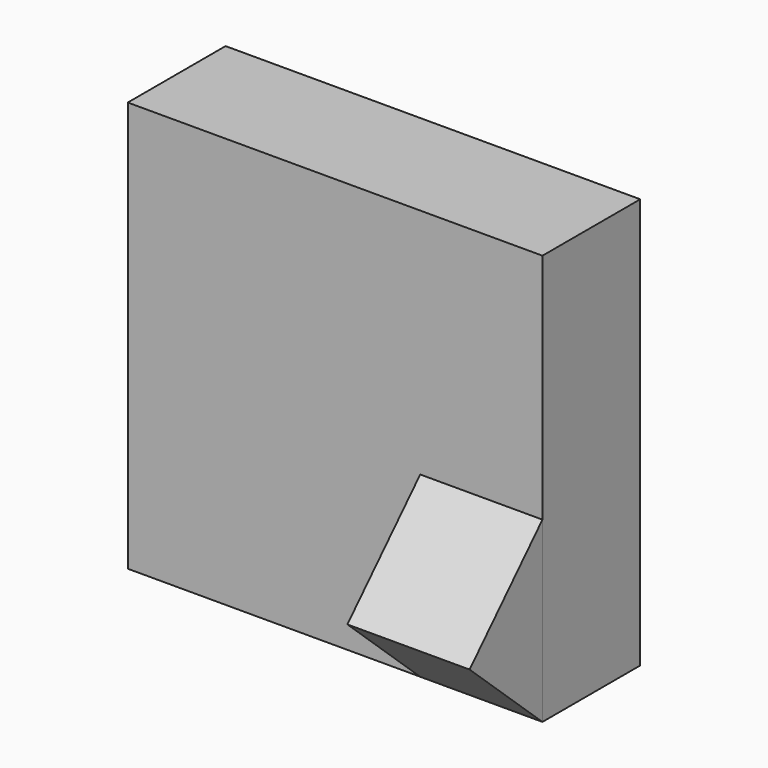
from build123d import *

# Parameters (mm, degrees)
F0_W     = 86.178172
F0_H     = 85.297007
F1_DEPTH = 25.4
F3_DEPTH = 25.4


with BuildPart() as f1:
    # F0 (on Front) → F1 (new body)
    with BuildSketch(Plane.XZ):
        with Locations((-2.202919, 1.850454)):
            Rectangle(F0_W, F0_H)
    extrude(amount=F1_DEPTH)


with BuildPart() as f3:
    # F2 (on face) → F3 (new body)
    with BuildSketch(Plane.YZ.offset(40.886167)):
        Polygon((-25.4, -40.798049), (-25.4, -3.789018), (-44.322722, -23.527168), align=None)
    extrude(amount=-F3_DEPTH)


solid = Compound([f1.part, f3.part])
